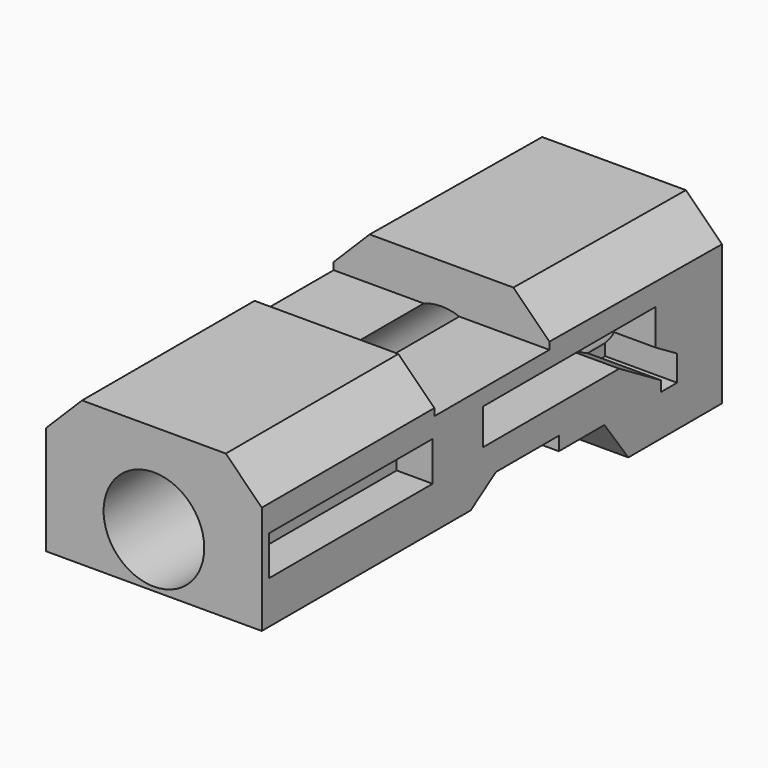
from build123d import *

# Parameters (mm, degrees)
F1_DEPTH  = 76.2
F3_DEPTH  = 127
F4_SIZE   = 12.7
F5_R      = 17.78
F5_R_2    = 12.7
F6_DEPTH  = 254
F8_DEPTH  = 25.4
F9_W      = 72.165888
F9_H      = 13.97679
F10_DEPTH = 12.7


with BuildPart() as f1:
    # F0 (on Right) → F1 (new body)
    with BuildSketch(Plane.YZ):
        Polygon((72.027118, 67.494695), (-131.172882, 68.619423), (-131.172882, -34.105305), (72.027118, -34.105305), align=None)
    extrude(amount=F1_DEPTH)

    # F2 (on face) → F3 (cut)
    with BuildSketch(Plane.YZ.offset(76.2)):
        Polygon((-38.896065, 11.837486), (-131.172882, 11.837486), (-131.172882, -34.105305), (72.027118, -34.105305), (72.027118, 0), (30.702649, 0), (20.148747, 14.404653), (0, 14.404653), (0, 19.253744), (-27.771682, 19.253744), align=None)
        Polygon((-131.172882, 68.619423), (-131.172882, 62.895566), (-54.972882, 62.895566), (-54.972882, 47.655566), (-4.172882, 47.655566), (-4.172882, 62.895566), (72.024081, 62.215233), (72.027118, 0), (72.027118, 67.494695), align=None)
    extrude(amount=-F3_DEPTH, mode=Mode.SUBTRACT)

    # F4
    f4_edges = [f1.edges().sort_by_distance(p)[0] for p in [
        (76.2, -93.072882, 62.895566),
        (76.2, 33.925599, 62.5554),
        (0, -93.072882, 62.895566),
        (0, 33.925599, 62.5554),
    ]]
    chamfer(f4_edges, length=F4_SIZE)

    # F5 (on face) → F6 (cut)
    with BuildSketch(Plane.XZ.offset(131.172882)):
        with Locations((38.1, 31.016526)):
            Circle(F5_R)
        with Locations((38.1, 31.016526)):
            Circle(F5_R_2, mode=Mode.SUBTRACT)
        with Locations((38.1, 31.016526)):
            Circle(F5_R_2)
    extrude(amount=-F6_DEPTH, mode=Mode.SUBTRACT)

    # F7 (on face) → F8 (cut)
    with BuildSketch(Plane.YZ.offset(76.2)):
        Polygon((42.803339, 41.952084), (-33.396661, 41.952084), (-33.396661, 29.252084), (26.66526, 29.252084), (45.232709, 18.085102), (45.232709, 14.487018), (52.239504, 14.487018), (52.239504, 23.576912), (42.803339, 29.252084), align=None)
    extrude(amount=-F8_DEPTH, mode=Mode.SUBTRACT)

    # F9 (on face) → F10 (cut)
    with BuildSketch(Plane.YZ.offset(76.2)):
        with Locations((-91.808209, 33.943634)):
            Rectangle(F9_W, F9_H)
    extrude(amount=-F10_DEPTH, mode=Mode.SUBTRACT)


solid = f1.part
